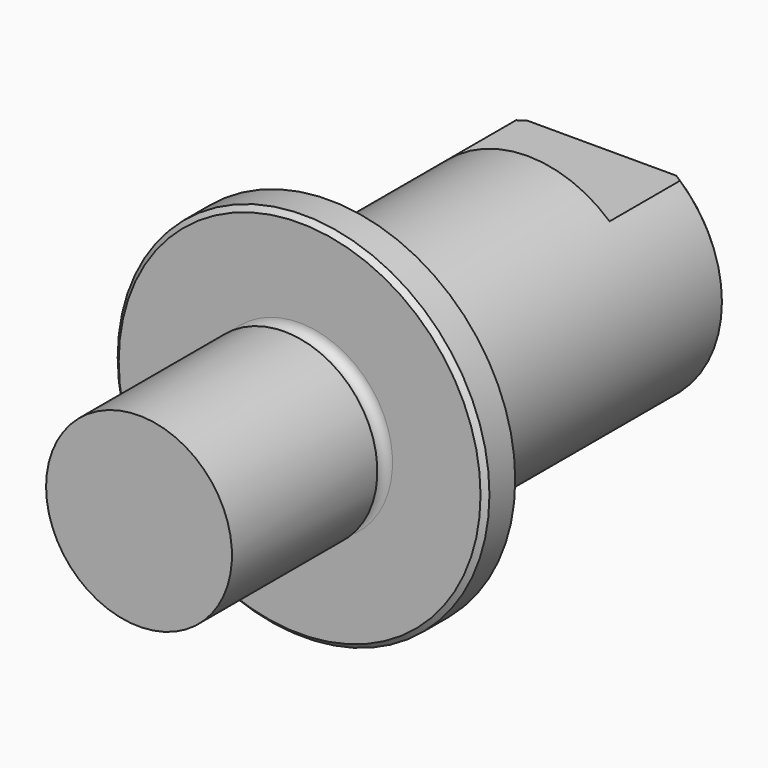
from build123d import *

# Parameters (mm, degrees)
F2_SIZE  = 0.508
F3_SIZE  = 0.508
F5_DEPTH = 9.525


with BuildPart() as f1:
    # F0 (on Top) → F1 (revolve)
    with BuildSketch(Plane.XY):
        Polygon((-9.525, -1.905), (0, -1.905), (0, 1.905), (-12.7, 1.905), (-19.05, 1.905), (-19.05, -1.905), align=None)
        with BuildLine():
            Line((0, -22.479), (0, -1.905))
            Line((0, -1.905), (-9.525, -1.905))
            ThreePointArc((-9.525, -1.905), (-8.55091, -2.87909), (-9.525, -3.85318))
            Line((-9.525, -3.85318), (-9.525, -22.479))
            Line((-9.525, -22.479), (0, -22.479))
        make_face()
        with BuildLine():
            Line((-12.7, 1.905), (0, 1.905))
            Line((0, 1.905), (0, 36.83))
            Line((0, 36.83), (-12.7, 36.83))
            Line((-12.7, 36.83), (-12.7, 3.85318))
            ThreePointArc((-12.7, 3.85318), (-11.72591, 2.87909), (-12.7, 1.905))
        make_face()
    revolve(axis=Axis((0, 7.1755, 0), (0, -1, 0)))

    # F2
    f2_edges = [f1.edges().sort_by_distance(p)[0] for p in [
        (12.7, 36.83, 0),
    ]]
    chamfer(f2_edges, length=F2_SIZE)

    # F3
    f3_edges = [f1.edges().sort_by_distance(p)[0] for p in [
        (19.05, -1.905, 0),
    ]]
    chamfer(f3_edges, length=F3_SIZE)

    # F4 (on face) → F5 (cut)
    with BuildSketch(Plane(origin=(0, 36.83, 0), x_dir=(-1, 0, 0), z_dir=(0, 1, 0))):
        with BuildLine():
            Line((-7.6104690394, 9.525), (7.6104690394, 9.525))
            ThreePointArc((7.6104690394, 9.525), (0, 12.192), (-7.6104690394, 9.525))
        make_face()
        with BuildLine():
            Line((7.6104690394, 9.525), (12.7, 9.525))
            Line((12.7, 9.525), (12.7, 12.7))
            Line((12.7, 12.7), (-12.7, 12.7))
            Line((-12.7, 12.7), (-12.7, 9.525))
            Line((-12.7, 9.525), (-7.6104690394, 9.525))
            ThreePointArc((-7.6104690394, 9.525), (0, 12.192), (7.6104690394, 9.525))
        make_face()
        with BuildLine():
            Line((-12.7, -12.7), (12.7, -12.7))
            Line((12.7, -12.7), (12.7, -9.525))
            Line((12.7, -9.525), (7.6104690394, -9.525))
            ThreePointArc((7.6104690394, -9.525), (0, -12.192), (-7.6104690394, -9.525))
            Line((-7.6104690394, -9.525), (-12.7, -9.525))
            Line((-12.7, -9.525), (-12.7, -12.7))
        make_face()
        with BuildLine():
            ThreePointArc((-7.6104690394, -9.525), (0, -12.192), (7.6104690394, -9.525))
            Line((7.6104690394, -9.525), (-7.6104690394, -9.525))
        make_face()
    extrude(amount=-F5_DEPTH, mode=Mode.SUBTRACT)


solid = f1.part
